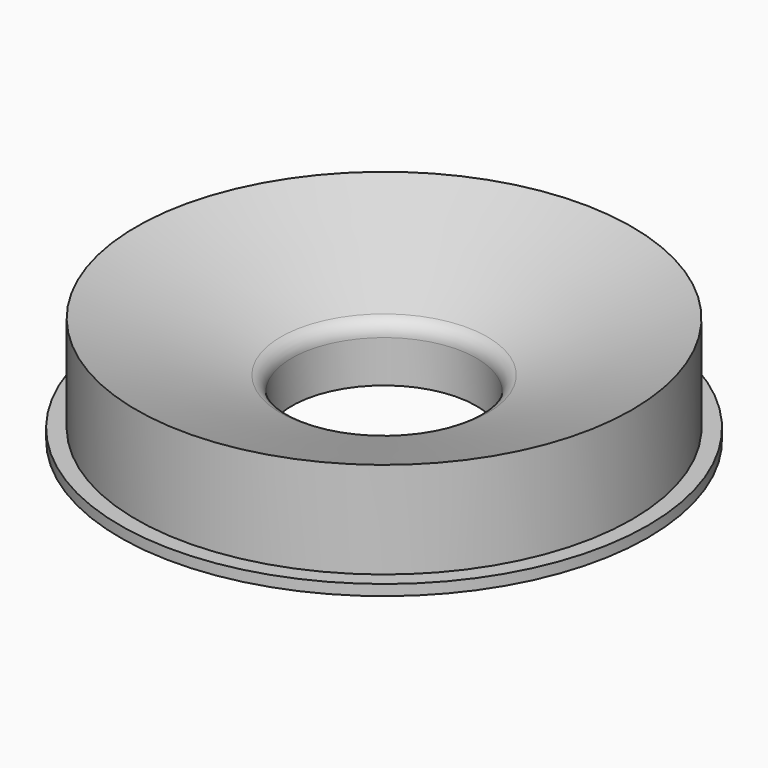
from build123d import *


with BuildPart() as f1:
    # F0 (on Front) → F1 (revolve)
    with BuildSketch(Plane.XZ):
        with BuildLine():
            Line((17.25, 7.861132), (17.25, 0))
            Line((17.25, 0), (46.25, 0))
            Line((46.25, 0), (49.25, 0))
            Line((49.25, 0), (49.25, 2))
            Line((49.25, 2), (46.25, 2))
            Line((46.25, 2), (46.25, 20))
            Line((46.25, 20), (19.272028, 10.697251))
            ThreePointArc((19.272028, 10.697251), (17.807264, 9.602695), (17.25, 7.861132))
        make_face()
    revolve(axis=Axis((0, 0, 5.085478), (0, 0, -1)))


solid = f1.part
